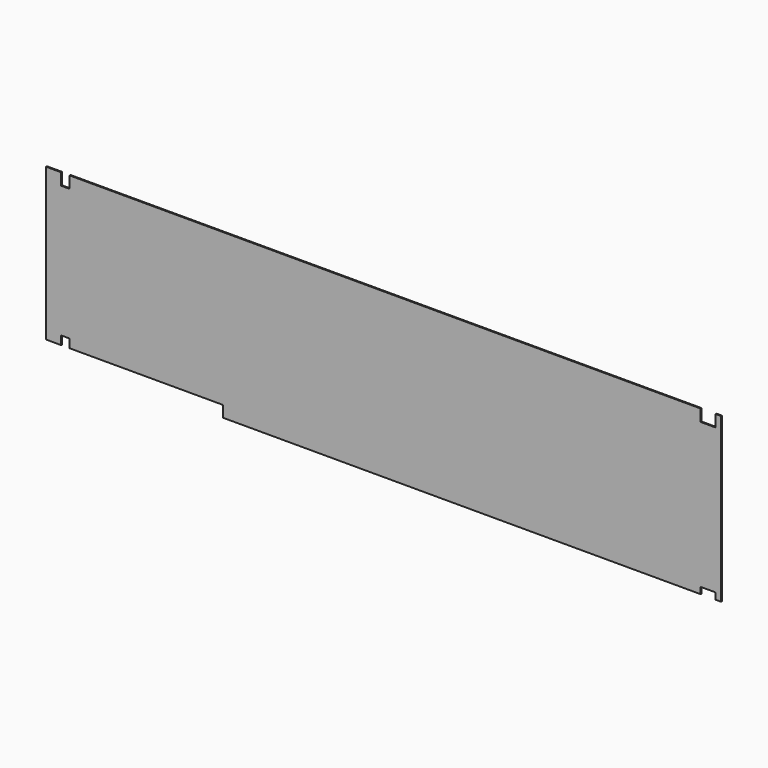
from build123d import *

# Parameters (mm, degrees)
F1_DEPTH = 25.4


with BuildPart() as f1:
    # F0 (on Front) → F1 (new body)
    with BuildSketch(Plane.XZ):
        Polygon((355.6, 3860.8), (0, 3860.8), (0, 266.7), (355.6, 266.7), (355.6, 469.9), (558.8, 469.9), (558.8, 266.7), (4178.3, 266.7), (4178.3, 0), (15462.25, 0), (15462.25, 152.4), (15817.85, 152.4), (15817.85, 0), (15944.85, 0), (15944.85, 3860.8), (15817.85, 3860.8), (15817.85, 3581.4), (15462.25, 3581.4), (15462.25, 3860.8), (558.8, 3860.8), (558.8, 3581.4), (355.6, 3581.4), align=None)
    extrude(amount=F1_DEPTH)


solid = f1.part
